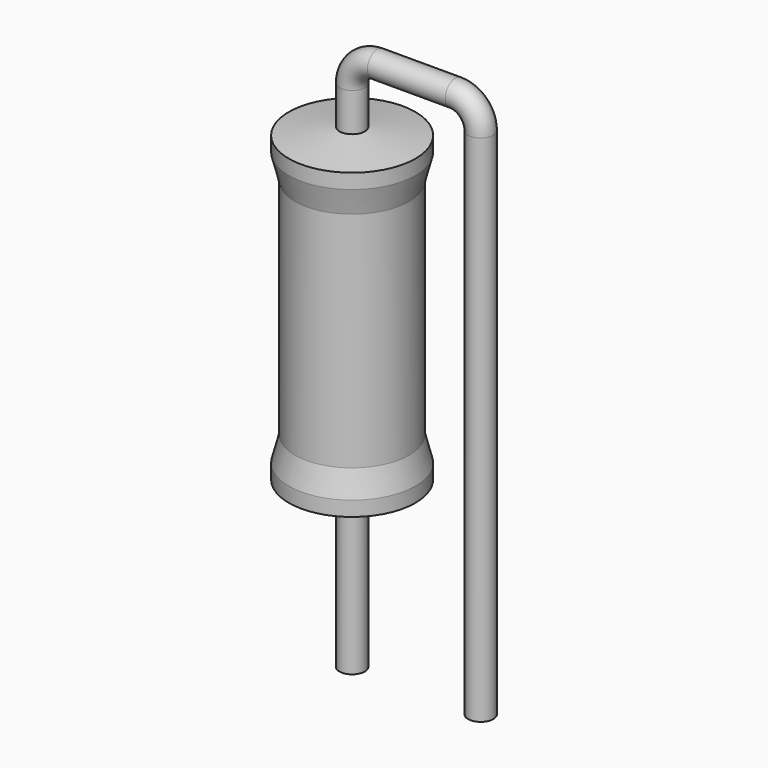
from build123d import *

# Parameters (mm, degrees)
SKETCH_R = 0.25


with BuildPart() as sweep_body:
    # Sweep: sweep along a path in Sketch001
    with BuildLine(Plane.XZ) as sweep_path:
        Line((0, -3), (0, 7.15))
        ThreePointArc((0, 7.15), (0.146445, 7.503551), (0.499994, 7.65))
        Line((0.499994, 7.65), (2.04, 7.65))
        ThreePointArc((2.04, 7.65), (2.393553, 7.503553), (2.54, 7.15))
        Line((2.54, 7.15), (2.54, -3))
    # Sketch → Sweep (sweep)
    with BuildSketch(Plane.XY.offset(-2)):
        Circle(SKETCH_R)
    sweep(path=sweep_path.line)


with BuildPart() as revolution:
    # Sketch002 → Revolution (revolve)
    with BuildSketch(Plane.XZ):
        Polygon((0, 0.1), (0, 6.4), (0.1875, 6.4), (1.25, 6.2425), (1.25, 5.95), (1.125, 5.455), (1.125, 1.045), (1.25, 0.55), (1.25, 0.2575), (0.1875, 0.1), align=None)
    revolve(axis=Axis((0, 0, 0), (0, 0, 1)))


solid = Compound([sweep_body.part, revolution.part])
